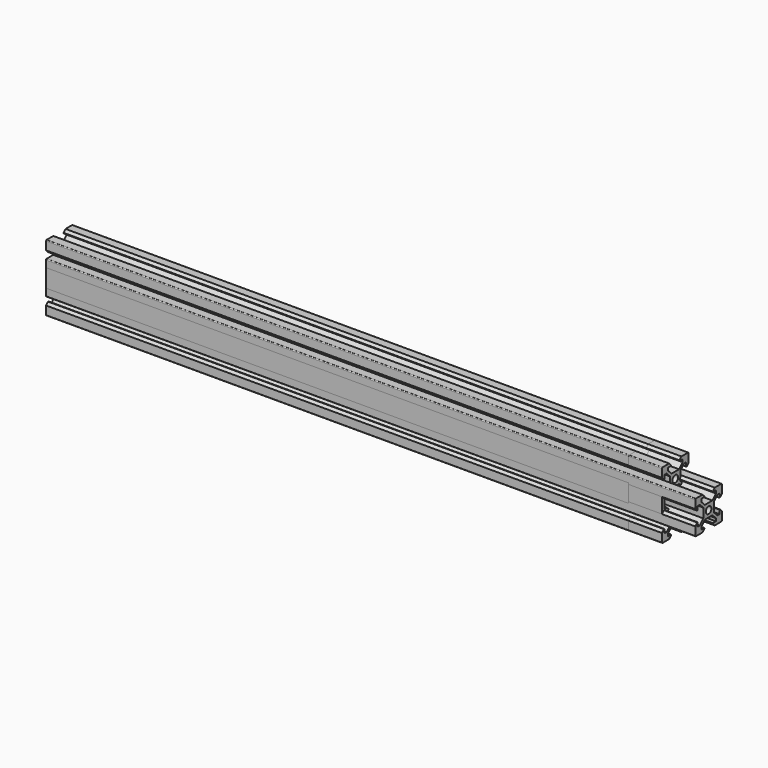
from build123d import *

# Parameters (mm, degrees)
F0_R     = 2.1
F2_DEPTH = 345
F3_DEPTH = 270
F4_DEPTH = 320
F1_R     = 2.1
F5_DEPTH = 327
F6_DEPTH = 370
F7_DEPTH = 390
F8_DEPTH = 350


with BuildPart() as f2:
    # F0 (on Right) → F2 (new body)
    with BuildSketch(Plane.YZ):
        with BuildLine():
            Line((2.83934, 13.9), (0, 13.9))
            Line((0, 13.9), (-2.83934, 13.9))
            Line((-2.83934, 13.9), (-5.5, 16.56066))
            Line((-5.5, 16.56066), (-5.5, 18.2))
            Line((-5.5, 18.2), (-3.125, 18.2))
            Line((-3.125, 18.2), (-3.125, 18.545))
            Line((-3.125, 18.545), (-4.58, 20))
            Line((-4.58, 20), (-9.5, 20))
            ThreePointArc((-9.5, 20), (-9.853553, 19.853553), (-10, 19.5))
            Line((-10, 19.5), (-10, 14.58))
            Line((-10, 14.58), (-8.545, 13.125))
            Line((-8.545, 13.125), (-8.2, 13.125))
            Line((-8.2, 13.125), (-8.2, 15.5))
            Line((-8.2, 15.5), (-6.56066, 15.5))
            Line((-6.56066, 15.5), (-3.9, 12.83934))
            Line((-3.9, 12.83934), (-3.9, 10))
            Line((-3.9, 10), (-3.9, 7.16066))
            Line((-3.9, 7.16066), (-6.56066, 4.5))
            Line((-6.56066, 4.5), (-8.2, 4.5))
            Line((-8.2, 4.5), (-8.2, 6.875))
            Line((-8.2, 6.875), (-8.545, 6.875))
            Line((-8.545, 6.875), (-10, 5.42))
            Line((-10, 5.42), (-10, 0))
            Line((-10, 0), (-10, -5.42))
            Line((-10, -5.42), (-8.545, -6.875))
            Line((-8.545, -6.875), (-8.2, -6.875))
            Line((-8.2, -6.875), (-8.2, -4.5))
            Line((-8.2, -4.5), (-6.56066, -4.5))
            Line((-6.56066, -4.5), (-3.9, -7.16066))
            Line((-3.9, -7.16066), (-3.9, -10))
            Line((-3.9, -10), (-3.9, -12.83934))
            Line((-3.9, -12.83934), (-6.56066, -15.5))
            Line((-6.56066, -15.5), (-8.2, -15.5))
            Line((-8.2, -15.5), (-8.2, -13.125))
            Line((-8.2, -13.125), (-8.545, -13.125))
            Line((-8.545, -13.125), (-10, -14.58))
            Line((-10, -14.58), (-10, -19.5))
            ThreePointArc((-10, -19.5), (-9.853553, -19.853553), (-9.5, -20))
            Line((-9.5, -20), (-4.58, -20))
            Line((-4.58, -20), (-3.125, -18.545))
            Line((-3.125, -18.545), (-3.125, -18.2))
            Line((-3.125, -18.2), (-5.5, -18.2))
            Line((-5.5, -18.2), (-5.5, -16.56066))
            Line((-5.5, -16.56066), (-2.83934, -13.9))
            Line((-2.83934, -13.9), (0, -13.9))
            Line((0, -13.9), (2.83934, -13.9))
            Line((2.83934, -13.9), (5.5, -16.56066))
            Line((5.5, -16.56066), (5.5, -18.2))
            Line((5.5, -18.2), (3.125, -18.2))
            Line((3.125, -18.2), (3.125, -18.545))
            Line((3.125, -18.545), (4.58, -20))
            Line((4.58, -20), (9.5, -20))
            ThreePointArc((9.5, -20), (9.853553, -19.853553), (10, -19.5))
            Line((10, -19.5), (10, -14.58))
            Line((10, -14.58), (8.545, -13.125))
            Line((8.545, -13.125), (8.2, -13.125))
            Line((8.2, -13.125), (8.2, -15.5))
            Line((8.2, -15.5), (6.56066, -15.5))
            Line((6.56066, -15.5), (3.9, -12.83934))
            Line((3.9, -12.83934), (3.9, -10))
            Line((3.9, -10), (3.9, -7.16066))
            Line((3.9, -7.16066), (6.56066, -4.5))
            Line((6.56066, -4.5), (8.2, -4.5))
            Line((8.2, -4.5), (8.2, -6.875))
            Line((8.2, -6.875), (8.545, -6.875))
            Line((8.545, -6.875), (10, -5.42))
            Line((10, -5.42), (10, 0))
            Line((10, 0), (10, 5.42))
            Line((10, 5.42), (8.545, 6.875))
            Line((8.545, 6.875), (8.2, 6.875))
            Line((8.2, 6.875), (8.2, 4.5))
            Line((8.2, 4.5), (6.56066, 4.5))
            Line((6.56066, 4.5), (3.9, 7.16066))
            Line((3.9, 7.16066), (3.9, 10))
            Line((3.9, 10), (3.9, 12.83934))
            Line((3.9, 12.83934), (6.56066, 15.5))
            Line((6.56066, 15.5), (8.2, 15.5))
            Line((8.2, 15.5), (8.2, 13.125))
            Line((8.2, 13.125), (8.545, 13.125))
            Line((8.545, 13.125), (10, 14.58))
            Line((10, 14.58), (10, 19.5))
            ThreePointArc((10, 19.5), (9.853553, 19.853553), (9.5, 20))
            Line((9.5, 20), (4.58, 20))
            Line((4.58, 20), (3.125, 18.545))
            Line((3.125, 18.545), (3.125, 18.2))
            Line((3.125, 18.2), (5.5, 18.2))
            Line((5.5, 18.2), (5.5, 16.56066))
            Line((5.5, 16.56066), (2.83934, 13.9))
        make_face()
        with Locations((0, -10)):
            Circle(F0_R, mode=Mode.SUBTRACT)
        Polygon((-2.83934, 6.1), (0, 6.1), (2.83934, 6.1), (6.23934, 2.7), (8.2, 2.7), (8.2, 0), (8.2, -2.7), (6.23934, -2.7), (2.83934, -6.1), (0, -6.1), (-2.83934, -6.1), (-6.23934, -2.7), (-8.2, -2.7), (-8.2, 0), (-8.2, 2.7), (-6.23934, 2.7), align=None, mode=Mode.SUBTRACT)
        with Locations((0, 10)):
            Circle(F0_R, mode=Mode.SUBTRACT)
    extrude(amount=F2_DEPTH)


with BuildPart() as f3:
    # F0 (on Right) → F3 (new body)
    with BuildSketch(Plane.YZ):
        with BuildLine():
            Line((2.83934, 13.9), (0, 13.9))
            Line((0, 13.9), (-2.83934, 13.9))
            Line((-2.83934, 13.9), (-5.5, 16.56066))
            Line((-5.5, 16.56066), (-5.5, 18.2))
            Line((-5.5, 18.2), (-3.125, 18.2))
            Line((-3.125, 18.2), (-3.125, 18.545))
            Line((-3.125, 18.545), (-4.58, 20))
            Line((-4.58, 20), (-9.5, 20))
            ThreePointArc((-9.5, 20), (-9.853553, 19.853553), (-10, 19.5))
            Line((-10, 19.5), (-10, 14.58))
            Line((-10, 14.58), (-8.545, 13.125))
            Line((-8.545, 13.125), (-8.2, 13.125))
            Line((-8.2, 13.125), (-8.2, 15.5))
            Line((-8.2, 15.5), (-6.56066, 15.5))
            Line((-6.56066, 15.5), (-3.9, 12.83934))
            Line((-3.9, 12.83934), (-3.9, 10))
            Line((-3.9, 10), (-3.9, 7.16066))
            Line((-3.9, 7.16066), (-6.56066, 4.5))
            Line((-6.56066, 4.5), (-8.2, 4.5))
            Line((-8.2, 4.5), (-8.2, 6.875))
            Line((-8.2, 6.875), (-8.545, 6.875))
            Line((-8.545, 6.875), (-10, 5.42))
            Line((-10, 5.42), (-10, 0))
            Line((-10, 0), (-10, -5.42))
            Line((-10, -5.42), (-8.545, -6.875))
            Line((-8.545, -6.875), (-8.2, -6.875))
            Line((-8.2, -6.875), (-8.2, -4.5))
            Line((-8.2, -4.5), (-6.56066, -4.5))
            Line((-6.56066, -4.5), (-3.9, -7.16066))
            Line((-3.9, -7.16066), (-3.9, -10))
            Line((-3.9, -10), (-3.9, -12.83934))
            Line((-3.9, -12.83934), (-6.56066, -15.5))
            Line((-6.56066, -15.5), (-8.2, -15.5))
            Line((-8.2, -15.5), (-8.2, -13.125))
            Line((-8.2, -13.125), (-8.545, -13.125))
            Line((-8.545, -13.125), (-10, -14.58))
            Line((-10, -14.58), (-10, -19.5))
            ThreePointArc((-10, -19.5), (-9.853553, -19.853553), (-9.5, -20))
            Line((-9.5, -20), (-4.58, -20))
            Line((-4.58, -20), (-3.125, -18.545))
            Line((-3.125, -18.545), (-3.125, -18.2))
            Line((-3.125, -18.2), (-5.5, -18.2))
            Line((-5.5, -18.2), (-5.5, -16.56066))
            Line((-5.5, -16.56066), (-2.83934, -13.9))
            Line((-2.83934, -13.9), (0, -13.9))
            Line((0, -13.9), (2.83934, -13.9))
            Line((2.83934, -13.9), (5.5, -16.56066))
            Line((5.5, -16.56066), (5.5, -18.2))
            Line((5.5, -18.2), (3.125, -18.2))
            Line((3.125, -18.2), (3.125, -18.545))
            Line((3.125, -18.545), (4.58, -20))
            Line((4.58, -20), (9.5, -20))
            ThreePointArc((9.5, -20), (9.853553, -19.853553), (10, -19.5))
            Line((10, -19.5), (10, -14.58))
            Line((10, -14.58), (8.545, -13.125))
            Line((8.545, -13.125), (8.2, -13.125))
            Line((8.2, -13.125), (8.2, -15.5))
            Line((8.2, -15.5), (6.56066, -15.5))
            Line((6.56066, -15.5), (3.9, -12.83934))
            Line((3.9, -12.83934), (3.9, -10))
            Line((3.9, -10), (3.9, -7.16066))
            Line((3.9, -7.16066), (6.56066, -4.5))
            Line((6.56066, -4.5), (8.2, -4.5))
            Line((8.2, -4.5), (8.2, -6.875))
            Line((8.2, -6.875), (8.545, -6.875))
            Line((8.545, -6.875), (10, -5.42))
            Line((10, -5.42), (10, 0))
            Line((10, 0), (10, 5.42))
            Line((10, 5.42), (8.545, 6.875))
            Line((8.545, 6.875), (8.2, 6.875))
            Line((8.2, 6.875), (8.2, 4.5))
            Line((8.2, 4.5), (6.56066, 4.5))
            Line((6.56066, 4.5), (3.9, 7.16066))
            Line((3.9, 7.16066), (3.9, 10))
            Line((3.9, 10), (3.9, 12.83934))
            Line((3.9, 12.83934), (6.56066, 15.5))
            Line((6.56066, 15.5), (8.2, 15.5))
            Line((8.2, 15.5), (8.2, 13.125))
            Line((8.2, 13.125), (8.545, 13.125))
            Line((8.545, 13.125), (10, 14.58))
            Line((10, 14.58), (10, 19.5))
            ThreePointArc((10, 19.5), (9.853553, 19.853553), (9.5, 20))
            Line((9.5, 20), (4.58, 20))
            Line((4.58, 20), (3.125, 18.545))
            Line((3.125, 18.545), (3.125, 18.2))
            Line((3.125, 18.2), (5.5, 18.2))
            Line((5.5, 18.2), (5.5, 16.56066))
            Line((5.5, 16.56066), (2.83934, 13.9))
        make_face()
        with Locations((0, -10)):
            Circle(F0_R, mode=Mode.SUBTRACT)
        Polygon((-2.83934, 6.1), (0, 6.1), (2.83934, 6.1), (6.23934, 2.7), (8.2, 2.7), (8.2, 0), (8.2, -2.7), (6.23934, -2.7), (2.83934, -6.1), (0, -6.1), (-2.83934, -6.1), (-6.23934, -2.7), (-8.2, -2.7), (-8.2, 0), (-8.2, 2.7), (-6.23934, 2.7), align=None, mode=Mode.SUBTRACT)
        with Locations((0, 10)):
            Circle(F0_R, mode=Mode.SUBTRACT)
    extrude(amount=F3_DEPTH)


with BuildPart() as f4:
    # F0 (on Right) → F4 (new body)
    with BuildSketch(Plane.YZ):
        with BuildLine():
            Line((2.83934, 13.9), (0, 13.9))
            Line((0, 13.9), (-2.83934, 13.9))
            Line((-2.83934, 13.9), (-5.5, 16.56066))
            Line((-5.5, 16.56066), (-5.5, 18.2))
            Line((-5.5, 18.2), (-3.125, 18.2))
            Line((-3.125, 18.2), (-3.125, 18.545))
            Line((-3.125, 18.545), (-4.58, 20))
            Line((-4.58, 20), (-9.5, 20))
            ThreePointArc((-9.5, 20), (-9.853553, 19.853553), (-10, 19.5))
            Line((-10, 19.5), (-10, 14.58))
            Line((-10, 14.58), (-8.545, 13.125))
            Line((-8.545, 13.125), (-8.2, 13.125))
            Line((-8.2, 13.125), (-8.2, 15.5))
            Line((-8.2, 15.5), (-6.56066, 15.5))
            Line((-6.56066, 15.5), (-3.9, 12.83934))
            Line((-3.9, 12.83934), (-3.9, 10))
            Line((-3.9, 10), (-3.9, 7.16066))
            Line((-3.9, 7.16066), (-6.56066, 4.5))
            Line((-6.56066, 4.5), (-8.2, 4.5))
            Line((-8.2, 4.5), (-8.2, 6.875))
            Line((-8.2, 6.875), (-8.545, 6.875))
            Line((-8.545, 6.875), (-10, 5.42))
            Line((-10, 5.42), (-10, 0))
            Line((-10, 0), (-10, -5.42))
            Line((-10, -5.42), (-8.545, -6.875))
            Line((-8.545, -6.875), (-8.2, -6.875))
            Line((-8.2, -6.875), (-8.2, -4.5))
            Line((-8.2, -4.5), (-6.56066, -4.5))
            Line((-6.56066, -4.5), (-3.9, -7.16066))
            Line((-3.9, -7.16066), (-3.9, -10))
            Line((-3.9, -10), (-3.9, -12.83934))
            Line((-3.9, -12.83934), (-6.56066, -15.5))
            Line((-6.56066, -15.5), (-8.2, -15.5))
            Line((-8.2, -15.5), (-8.2, -13.125))
            Line((-8.2, -13.125), (-8.545, -13.125))
            Line((-8.545, -13.125), (-10, -14.58))
            Line((-10, -14.58), (-10, -19.5))
            ThreePointArc((-10, -19.5), (-9.853553, -19.853553), (-9.5, -20))
            Line((-9.5, -20), (-4.58, -20))
            Line((-4.58, -20), (-3.125, -18.545))
            Line((-3.125, -18.545), (-3.125, -18.2))
            Line((-3.125, -18.2), (-5.5, -18.2))
            Line((-5.5, -18.2), (-5.5, -16.56066))
            Line((-5.5, -16.56066), (-2.83934, -13.9))
            Line((-2.83934, -13.9), (0, -13.9))
            Line((0, -13.9), (2.83934, -13.9))
            Line((2.83934, -13.9), (5.5, -16.56066))
            Line((5.5, -16.56066), (5.5, -18.2))
            Line((5.5, -18.2), (3.125, -18.2))
            Line((3.125, -18.2), (3.125, -18.545))
            Line((3.125, -18.545), (4.58, -20))
            Line((4.58, -20), (9.5, -20))
            ThreePointArc((9.5, -20), (9.853553, -19.853553), (10, -19.5))
            Line((10, -19.5), (10, -14.58))
            Line((10, -14.58), (8.545, -13.125))
            Line((8.545, -13.125), (8.2, -13.125))
            Line((8.2, -13.125), (8.2, -15.5))
            Line((8.2, -15.5), (6.56066, -15.5))
            Line((6.56066, -15.5), (3.9, -12.83934))
            Line((3.9, -12.83934), (3.9, -10))
            Line((3.9, -10), (3.9, -7.16066))
            Line((3.9, -7.16066), (6.56066, -4.5))
            Line((6.56066, -4.5), (8.2, -4.5))
            Line((8.2, -4.5), (8.2, -6.875))
            Line((8.2, -6.875), (8.545, -6.875))
            Line((8.545, -6.875), (10, -5.42))
            Line((10, -5.42), (10, 0))
            Line((10, 0), (10, 5.42))
            Line((10, 5.42), (8.545, 6.875))
            Line((8.545, 6.875), (8.2, 6.875))
            Line((8.2, 6.875), (8.2, 4.5))
            Line((8.2, 4.5), (6.56066, 4.5))
            Line((6.56066, 4.5), (3.9, 7.16066))
            Line((3.9, 7.16066), (3.9, 10))
            Line((3.9, 10), (3.9, 12.83934))
            Line((3.9, 12.83934), (6.56066, 15.5))
            Line((6.56066, 15.5), (8.2, 15.5))
            Line((8.2, 15.5), (8.2, 13.125))
            Line((8.2, 13.125), (8.545, 13.125))
            Line((8.545, 13.125), (10, 14.58))
            Line((10, 14.58), (10, 19.5))
            ThreePointArc((10, 19.5), (9.853553, 19.853553), (9.5, 20))
            Line((9.5, 20), (4.58, 20))
            Line((4.58, 20), (3.125, 18.545))
            Line((3.125, 18.545), (3.125, 18.2))
            Line((3.125, 18.2), (5.5, 18.2))
            Line((5.5, 18.2), (5.5, 16.56066))
            Line((5.5, 16.56066), (2.83934, 13.9))
        make_face()
        with Locations((0, -10)):
            Circle(F0_R, mode=Mode.SUBTRACT)
        Polygon((-2.83934, 6.1), (0, 6.1), (2.83934, 6.1), (6.23934, 2.7), (8.2, 2.7), (8.2, 0), (8.2, -2.7), (6.23934, -2.7), (2.83934, -6.1), (0, -6.1), (-2.83934, -6.1), (-6.23934, -2.7), (-8.2, -2.7), (-8.2, 0), (-8.2, 2.7), (-6.23934, 2.7), align=None, mode=Mode.SUBTRACT)
        with Locations((0, 10)):
            Circle(F0_R, mode=Mode.SUBTRACT)
    extrude(amount=F4_DEPTH)


with BuildPart() as f5:
    # F1 (on Right) → F5 (new body)
    with BuildSketch(Plane.YZ):
        with BuildLine():
            Line((-4.58, 10), (-9.5, 10))
            ThreePointArc((-9.5, 10), (-9.853553, 9.853553), (-10, 9.5))
            Line((-10, 9.5), (-10, 4.58))
            Line((-10, 4.58), (-8.545, 3.125))
            Line((-8.545, 3.125), (-8.2, 3.125))
            Line((-8.2, 3.125), (-8.2, 5.5))
            Line((-8.2, 5.5), (-6.56066, 5.5))
            Line((-6.56066, 5.5), (-3.9, 2.83934))
            Line((-3.9, 2.83934), (-3.9, 0))
            Line((-3.9, 0), (-3.9, -2.83934))
            Line((-3.9, -2.83934), (-6.56066, -5.5))
            Line((-6.56066, -5.5), (-8.2, -5.5))
            Line((-8.2, -5.5), (-8.2, -3.125))
            Line((-8.2, -3.125), (-8.545, -3.125))
            Line((-8.545, -3.125), (-10, -4.58))
            Line((-10, -4.58), (-10, -9.5))
            ThreePointArc((-10, -9.5), (-9.853553, -9.853553), (-9.5, -10))
            Line((-9.5, -10), (-4.58, -10))
            Line((-4.58, -10), (-3.125, -8.545))
            Line((-3.125, -8.545), (-3.125, -8.2))
            Line((-3.125, -8.2), (-5.5, -8.2))
            Line((-5.5, -8.2), (-5.5, -6.56066))
            Line((-5.5, -6.56066), (-2.83934, -3.9))
            Line((-2.83934, -3.9), (0, -3.9))
            Line((0, -3.9), (2.83934, -3.9))
            Line((2.83934, -3.9), (5.5, -6.56066))
            Line((5.5, -6.56066), (5.5, -8.2))
            Line((5.5, -8.2), (3.125, -8.2))
            Line((3.125, -8.2), (3.125, -8.545))
            Line((3.125, -8.545), (4.58, -10))
            Line((4.58, -10), (9.5, -10))
            ThreePointArc((9.5, -10), (9.853553, -9.853553), (10, -9.5))
            Line((10, -9.5), (10, -4.58))
            Line((10, -4.58), (8.545, -3.125))
            Line((8.545, -3.125), (8.2, -3.125))
            Line((8.2, -3.125), (8.2, -5.5))
            Line((8.2, -5.5), (6.56066, -5.5))
            Line((6.56066, -5.5), (3.9, -2.83934))
            Line((3.9, -2.83934), (3.9, 0))
            Line((3.9, 0), (3.9, 2.83934))
            Line((3.9, 2.83934), (6.56066, 5.5))
            Line((6.56066, 5.5), (8.2, 5.5))
            Line((8.2, 5.5), (8.2, 3.125))
            Line((8.2, 3.125), (8.545, 3.125))
            Line((8.545, 3.125), (10, 4.58))
            Line((10, 4.58), (10, 9.5))
            ThreePointArc((10, 9.5), (9.853553, 9.853553), (9.5, 10))
            Line((9.5, 10), (4.58, 10))
            Line((4.58, 10), (3.125, 8.545))
            Line((3.125, 8.545), (3.125, 8.2))
            Line((3.125, 8.2), (5.5, 8.2))
            Line((5.5, 8.2), (5.5, 6.56066))
            Line((5.5, 6.56066), (2.83934, 3.9))
            Line((2.83934, 3.9), (0, 3.9))
            Line((0, 3.9), (-2.83934, 3.9))
            Line((-2.83934, 3.9), (-5.5, 6.56066))
            Line((-5.5, 6.56066), (-5.5, 8.2))
            Line((-5.5, 8.2), (-3.125, 8.2))
            Line((-3.125, 8.2), (-3.125, 8.545))
            Line((-3.125, 8.545), (-4.58, 10))
        make_face()
        Circle(F1_R, mode=Mode.SUBTRACT)
    extrude(amount=F5_DEPTH)


with BuildPart() as f6:
    # F0 (on Right) → F6 (new body)
    with BuildSketch(Plane.YZ):
        with BuildLine():
            Line((2.83934, 13.9), (0, 13.9))
            Line((0, 13.9), (-2.83934, 13.9))
            Line((-2.83934, 13.9), (-5.5, 16.56066))
            Line((-5.5, 16.56066), (-5.5, 18.2))
            Line((-5.5, 18.2), (-3.125, 18.2))
            Line((-3.125, 18.2), (-3.125, 18.545))
            Line((-3.125, 18.545), (-4.58, 20))
            Line((-4.58, 20), (-9.5, 20))
            ThreePointArc((-9.5, 20), (-9.853553, 19.853553), (-10, 19.5))
            Line((-10, 19.5), (-10, 14.58))
            Line((-10, 14.58), (-8.545, 13.125))
            Line((-8.545, 13.125), (-8.2, 13.125))
            Line((-8.2, 13.125), (-8.2, 15.5))
            Line((-8.2, 15.5), (-6.56066, 15.5))
            Line((-6.56066, 15.5), (-3.9, 12.83934))
            Line((-3.9, 12.83934), (-3.9, 10))
            Line((-3.9, 10), (-3.9, 7.16066))
            Line((-3.9, 7.16066), (-6.56066, 4.5))
            Line((-6.56066, 4.5), (-8.2, 4.5))
            Line((-8.2, 4.5), (-8.2, 6.875))
            Line((-8.2, 6.875), (-8.545, 6.875))
            Line((-8.545, 6.875), (-10, 5.42))
            Line((-10, 5.42), (-10, 0))
            Line((-10, 0), (-10, -5.42))
            Line((-10, -5.42), (-8.545, -6.875))
            Line((-8.545, -6.875), (-8.2, -6.875))
            Line((-8.2, -6.875), (-8.2, -4.5))
            Line((-8.2, -4.5), (-6.56066, -4.5))
            Line((-6.56066, -4.5), (-3.9, -7.16066))
            Line((-3.9, -7.16066), (-3.9, -10))
            Line((-3.9, -10), (-3.9, -12.83934))
            Line((-3.9, -12.83934), (-6.56066, -15.5))
            Line((-6.56066, -15.5), (-8.2, -15.5))
            Line((-8.2, -15.5), (-8.2, -13.125))
            Line((-8.2, -13.125), (-8.545, -13.125))
            Line((-8.545, -13.125), (-10, -14.58))
            Line((-10, -14.58), (-10, -19.5))
            ThreePointArc((-10, -19.5), (-9.853553, -19.853553), (-9.5, -20))
            Line((-9.5, -20), (-4.58, -20))
            Line((-4.58, -20), (-3.125, -18.545))
            Line((-3.125, -18.545), (-3.125, -18.2))
            Line((-3.125, -18.2), (-5.5, -18.2))
            Line((-5.5, -18.2), (-5.5, -16.56066))
            Line((-5.5, -16.56066), (-2.83934, -13.9))
            Line((-2.83934, -13.9), (0, -13.9))
            Line((0, -13.9), (2.83934, -13.9))
            Line((2.83934, -13.9), (5.5, -16.56066))
            Line((5.5, -16.56066), (5.5, -18.2))
            Line((5.5, -18.2), (3.125, -18.2))
            Line((3.125, -18.2), (3.125, -18.545))
            Line((3.125, -18.545), (4.58, -20))
            Line((4.58, -20), (9.5, -20))
            ThreePointArc((9.5, -20), (9.853553, -19.853553), (10, -19.5))
            Line((10, -19.5), (10, -14.58))
            Line((10, -14.58), (8.545, -13.125))
            Line((8.545, -13.125), (8.2, -13.125))
            Line((8.2, -13.125), (8.2, -15.5))
            Line((8.2, -15.5), (6.56066, -15.5))
            Line((6.56066, -15.5), (3.9, -12.83934))
            Line((3.9, -12.83934), (3.9, -10))
            Line((3.9, -10), (3.9, -7.16066))
            Line((3.9, -7.16066), (6.56066, -4.5))
            Line((6.56066, -4.5), (8.2, -4.5))
            Line((8.2, -4.5), (8.2, -6.875))
            Line((8.2, -6.875), (8.545, -6.875))
            Line((8.545, -6.875), (10, -5.42))
            Line((10, -5.42), (10, 0))
            Line((10, 0), (10, 5.42))
            Line((10, 5.42), (8.545, 6.875))
            Line((8.545, 6.875), (8.2, 6.875))
            Line((8.2, 6.875), (8.2, 4.5))
            Line((8.2, 4.5), (6.56066, 4.5))
            Line((6.56066, 4.5), (3.9, 7.16066))
            Line((3.9, 7.16066), (3.9, 10))
            Line((3.9, 10), (3.9, 12.83934))
            Line((3.9, 12.83934), (6.56066, 15.5))
            Line((6.56066, 15.5), (8.2, 15.5))
            Line((8.2, 15.5), (8.2, 13.125))
            Line((8.2, 13.125), (8.545, 13.125))
            Line((8.545, 13.125), (10, 14.58))
            Line((10, 14.58), (10, 19.5))
            ThreePointArc((10, 19.5), (9.853553, 19.853553), (9.5, 20))
            Line((9.5, 20), (4.58, 20))
            Line((4.58, 20), (3.125, 18.545))
            Line((3.125, 18.545), (3.125, 18.2))
            Line((3.125, 18.2), (5.5, 18.2))
            Line((5.5, 18.2), (5.5, 16.56066))
            Line((5.5, 16.56066), (2.83934, 13.9))
        make_face()
        with Locations((0, -10)):
            Circle(F0_R, mode=Mode.SUBTRACT)
        Polygon((-2.83934, 6.1), (0, 6.1), (2.83934, 6.1), (6.23934, 2.7), (8.2, 2.7), (8.2, 0), (8.2, -2.7), (6.23934, -2.7), (2.83934, -6.1), (0, -6.1), (-2.83934, -6.1), (-6.23934, -2.7), (-8.2, -2.7), (-8.2, 0), (-8.2, 2.7), (-6.23934, 2.7), align=None, mode=Mode.SUBTRACT)
        with Locations((0, 10)):
            Circle(F0_R, mode=Mode.SUBTRACT)
    extrude(amount=F6_DEPTH)


with BuildPart() as f7:
    # F1 (on Right) → F7 (new body)
    with BuildSketch(Plane.YZ):
        with BuildLine():
            Line((-4.58, 10), (-9.5, 10))
            ThreePointArc((-9.5, 10), (-9.853553, 9.853553), (-10, 9.5))
            Line((-10, 9.5), (-10, 4.58))
            Line((-10, 4.58), (-8.545, 3.125))
            Line((-8.545, 3.125), (-8.2, 3.125))
            Line((-8.2, 3.125), (-8.2, 5.5))
            Line((-8.2, 5.5), (-6.56066, 5.5))
            Line((-6.56066, 5.5), (-3.9, 2.83934))
            Line((-3.9, 2.83934), (-3.9, 0))
            Line((-3.9, 0), (-3.9, -2.83934))
            Line((-3.9, -2.83934), (-6.56066, -5.5))
            Line((-6.56066, -5.5), (-8.2, -5.5))
            Line((-8.2, -5.5), (-8.2, -3.125))
            Line((-8.2, -3.125), (-8.545, -3.125))
            Line((-8.545, -3.125), (-10, -4.58))
            Line((-10, -4.58), (-10, -9.5))
            ThreePointArc((-10, -9.5), (-9.853553, -9.853553), (-9.5, -10))
            Line((-9.5, -10), (-4.58, -10))
            Line((-4.58, -10), (-3.125, -8.545))
            Line((-3.125, -8.545), (-3.125, -8.2))
            Line((-3.125, -8.2), (-5.5, -8.2))
            Line((-5.5, -8.2), (-5.5, -6.56066))
            Line((-5.5, -6.56066), (-2.83934, -3.9))
            Line((-2.83934, -3.9), (0, -3.9))
            Line((0, -3.9), (2.83934, -3.9))
            Line((2.83934, -3.9), (5.5, -6.56066))
            Line((5.5, -6.56066), (5.5, -8.2))
            Line((5.5, -8.2), (3.125, -8.2))
            Line((3.125, -8.2), (3.125, -8.545))
            Line((3.125, -8.545), (4.58, -10))
            Line((4.58, -10), (9.5, -10))
            ThreePointArc((9.5, -10), (9.853553, -9.853553), (10, -9.5))
            Line((10, -9.5), (10, -4.58))
            Line((10, -4.58), (8.545, -3.125))
            Line((8.545, -3.125), (8.2, -3.125))
            Line((8.2, -3.125), (8.2, -5.5))
            Line((8.2, -5.5), (6.56066, -5.5))
            Line((6.56066, -5.5), (3.9, -2.83934))
            Line((3.9, -2.83934), (3.9, 0))
            Line((3.9, 0), (3.9, 2.83934))
            Line((3.9, 2.83934), (6.56066, 5.5))
            Line((6.56066, 5.5), (8.2, 5.5))
            Line((8.2, 5.5), (8.2, 3.125))
            Line((8.2, 3.125), (8.545, 3.125))
            Line((8.545, 3.125), (10, 4.58))
            Line((10, 4.58), (10, 9.5))
            ThreePointArc((10, 9.5), (9.853553, 9.853553), (9.5, 10))
            Line((9.5, 10), (4.58, 10))
            Line((4.58, 10), (3.125, 8.545))
            Line((3.125, 8.545), (3.125, 8.2))
            Line((3.125, 8.2), (5.5, 8.2))
            Line((5.5, 8.2), (5.5, 6.56066))
            Line((5.5, 6.56066), (2.83934, 3.9))
            Line((2.83934, 3.9), (0, 3.9))
            Line((0, 3.9), (-2.83934, 3.9))
            Line((-2.83934, 3.9), (-5.5, 6.56066))
            Line((-5.5, 6.56066), (-5.5, 8.2))
            Line((-5.5, 8.2), (-3.125, 8.2))
            Line((-3.125, 8.2), (-3.125, 8.545))
            Line((-3.125, 8.545), (-4.58, 10))
        make_face()
        Circle(F1_R, mode=Mode.SUBTRACT)
    extrude(amount=F7_DEPTH)


with BuildPart() as f8:
    # F0 (on Right) → F8 (new body)
    with BuildSketch(Plane.YZ):
        with BuildLine():
            Line((2.83934, 13.9), (0, 13.9))
            Line((0, 13.9), (-2.83934, 13.9))
            Line((-2.83934, 13.9), (-5.5, 16.56066))
            Line((-5.5, 16.56066), (-5.5, 18.2))
            Line((-5.5, 18.2), (-3.125, 18.2))
            Line((-3.125, 18.2), (-3.125, 18.545))
            Line((-3.125, 18.545), (-4.58, 20))
            Line((-4.58, 20), (-9.5, 20))
            ThreePointArc((-9.5, 20), (-9.853553, 19.853553), (-10, 19.5))
            Line((-10, 19.5), (-10, 14.58))
            Line((-10, 14.58), (-8.545, 13.125))
            Line((-8.545, 13.125), (-8.2, 13.125))
            Line((-8.2, 13.125), (-8.2, 15.5))
            Line((-8.2, 15.5), (-6.56066, 15.5))
            Line((-6.56066, 15.5), (-3.9, 12.83934))
            Line((-3.9, 12.83934), (-3.9, 10))
            Line((-3.9, 10), (-3.9, 7.16066))
            Line((-3.9, 7.16066), (-6.56066, 4.5))
            Line((-6.56066, 4.5), (-8.2, 4.5))
            Line((-8.2, 4.5), (-8.2, 6.875))
            Line((-8.2, 6.875), (-8.545, 6.875))
            Line((-8.545, 6.875), (-10, 5.42))
            Line((-10, 5.42), (-10, 0))
            Line((-10, 0), (-10, -5.42))
            Line((-10, -5.42), (-8.545, -6.875))
            Line((-8.545, -6.875), (-8.2, -6.875))
            Line((-8.2, -6.875), (-8.2, -4.5))
            Line((-8.2, -4.5), (-6.56066, -4.5))
            Line((-6.56066, -4.5), (-3.9, -7.16066))
            Line((-3.9, -7.16066), (-3.9, -10))
            Line((-3.9, -10), (-3.9, -12.83934))
            Line((-3.9, -12.83934), (-6.56066, -15.5))
            Line((-6.56066, -15.5), (-8.2, -15.5))
            Line((-8.2, -15.5), (-8.2, -13.125))
            Line((-8.2, -13.125), (-8.545, -13.125))
            Line((-8.545, -13.125), (-10, -14.58))
            Line((-10, -14.58), (-10, -19.5))
            ThreePointArc((-10, -19.5), (-9.853553, -19.853553), (-9.5, -20))
            Line((-9.5, -20), (-4.58, -20))
            Line((-4.58, -20), (-3.125, -18.545))
            Line((-3.125, -18.545), (-3.125, -18.2))
            Line((-3.125, -18.2), (-5.5, -18.2))
            Line((-5.5, -18.2), (-5.5, -16.56066))
            Line((-5.5, -16.56066), (-2.83934, -13.9))
            Line((-2.83934, -13.9), (0, -13.9))
            Line((0, -13.9), (2.83934, -13.9))
            Line((2.83934, -13.9), (5.5, -16.56066))
            Line((5.5, -16.56066), (5.5, -18.2))
            Line((5.5, -18.2), (3.125, -18.2))
            Line((3.125, -18.2), (3.125, -18.545))
            Line((3.125, -18.545), (4.58, -20))
            Line((4.58, -20), (9.5, -20))
            ThreePointArc((9.5, -20), (9.853553, -19.853553), (10, -19.5))
            Line((10, -19.5), (10, -14.58))
            Line((10, -14.58), (8.545, -13.125))
            Line((8.545, -13.125), (8.2, -13.125))
            Line((8.2, -13.125), (8.2, -15.5))
            Line((8.2, -15.5), (6.56066, -15.5))
            Line((6.56066, -15.5), (3.9, -12.83934))
            Line((3.9, -12.83934), (3.9, -10))
            Line((3.9, -10), (3.9, -7.16066))
            Line((3.9, -7.16066), (6.56066, -4.5))
            Line((6.56066, -4.5), (8.2, -4.5))
            Line((8.2, -4.5), (8.2, -6.875))
            Line((8.2, -6.875), (8.545, -6.875))
            Line((8.545, -6.875), (10, -5.42))
            Line((10, -5.42), (10, 0))
            Line((10, 0), (10, 5.42))
            Line((10, 5.42), (8.545, 6.875))
            Line((8.545, 6.875), (8.2, 6.875))
            Line((8.2, 6.875), (8.2, 4.5))
            Line((8.2, 4.5), (6.56066, 4.5))
            Line((6.56066, 4.5), (3.9, 7.16066))
            Line((3.9, 7.16066), (3.9, 10))
            Line((3.9, 10), (3.9, 12.83934))
            Line((3.9, 12.83934), (6.56066, 15.5))
            Line((6.56066, 15.5), (8.2, 15.5))
            Line((8.2, 15.5), (8.2, 13.125))
            Line((8.2, 13.125), (8.545, 13.125))
            Line((8.545, 13.125), (10, 14.58))
            Line((10, 14.58), (10, 19.5))
            ThreePointArc((10, 19.5), (9.853553, 19.853553), (9.5, 20))
            Line((9.5, 20), (4.58, 20))
            Line((4.58, 20), (3.125, 18.545))
            Line((3.125, 18.545), (3.125, 18.2))
            Line((3.125, 18.2), (5.5, 18.2))
            Line((5.5, 18.2), (5.5, 16.56066))
            Line((5.5, 16.56066), (2.83934, 13.9))
        make_face()
        with Locations((0, -10)):
            Circle(F0_R, mode=Mode.SUBTRACT)
        Polygon((-2.83934, 6.1), (0, 6.1), (2.83934, 6.1), (6.23934, 2.7), (8.2, 2.7), (8.2, 0), (8.2, -2.7), (6.23934, -2.7), (2.83934, -6.1), (0, -6.1), (-2.83934, -6.1), (-6.23934, -2.7), (-8.2, -2.7), (-8.2, 0), (-8.2, 2.7), (-6.23934, 2.7), align=None, mode=Mode.SUBTRACT)
        with Locations((0, 10)):
            Circle(F0_R, mode=Mode.SUBTRACT)
    extrude(amount=F8_DEPTH)


solid = Compound([f2.part, f3.part, f4.part, f5.part, f6.part, f7.part, f8.part])
